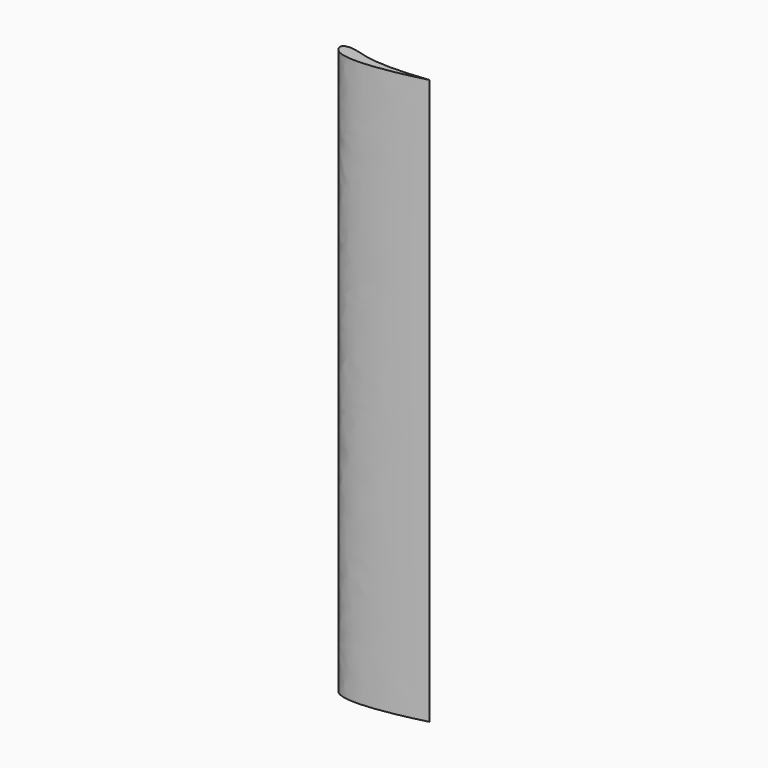
from build123d import *

# Parameters (mm, degrees)
F1_DEPTH = 1000


with BuildPart() as f1:
    # F0 (on Top) → F1 (new body)
    with BuildSketch(Plane.XY):
        with BuildLine():
            add(Edge.make_bspline(
                [(0, 0), (0, 5.7906993312), (17.8419729613, 9.8571357698), (50.5417764511, -4.7162550405), (108.2712138779, -6.3073075562), (159.0452765506, 0)],
                knots=[0, 0, 0, 0, 0.1964214584, 0.479480627, 1, 1, 1, 1], degree=3))
            add(Edge.make_bspline(
                [(0, 0), (5.3107244894, -31.3053131104), (87.4902804774, -18.4477735311), (159.0452765506, 0)],
                knots=[0, 0, 0, 0, 159.0452765506, 159.0452765506, 159.0452765506, 159.0452765506], degree=3))
        make_face()
    extrude(amount=F1_DEPTH)


solid = f1.part
